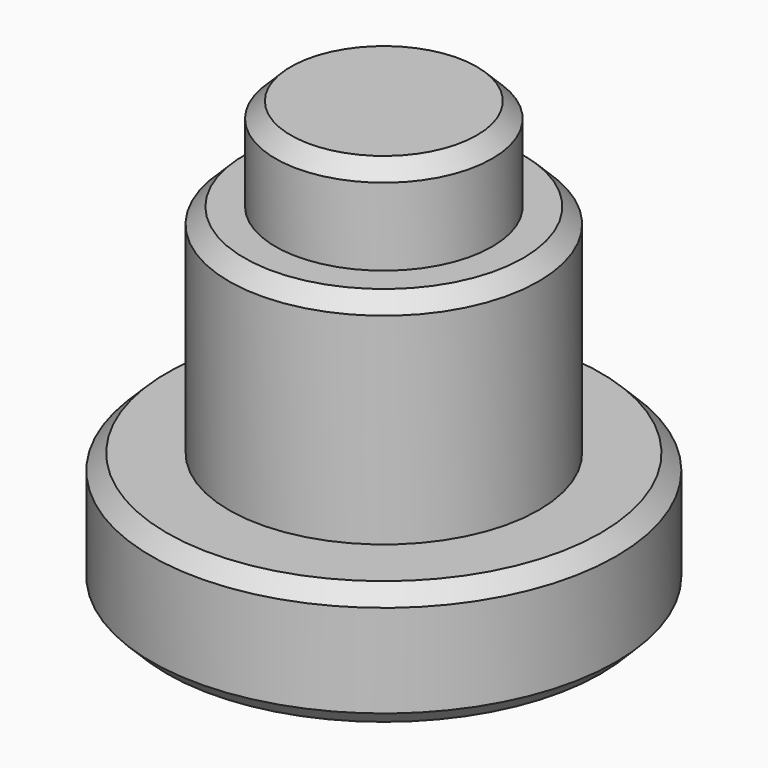
from build123d import *

# Parameters (mm, degrees)
F0_R     = 7.5
F1_DEPTH = 4
F2_R     = 5
F3_DEPTH = 7
F4_R     = 3.5
F5_DEPTH = 3
F6_SIZE  = 0.5


with BuildPart() as f1:
    # F0 (on Top) → F1 (new body)
    with BuildSketch(Plane.XY):
        Circle(F0_R)
    extrude(amount=F1_DEPTH)

    # F2 (on face) → F3 (join)
    with BuildSketch(Plane.XY.offset(4)):
        Circle(F2_R)
    extrude(amount=F3_DEPTH)

    # F4 (on face) → F5 (join)
    with BuildSketch(Plane.XY.offset(11)):
        Circle(F4_R)
    extrude(amount=F5_DEPTH)

    # F6
    f6_edges = [f1.edges().sort_by_distance(p)[0] for p in [
        (-3.5, 0, 14),
        (-5, 0, 11),
        (-7.5, 0, 4),
        (-7.5, 0, 0),
    ]]
    chamfer(f6_edges, length=F6_SIZE)


solid = f1.part
